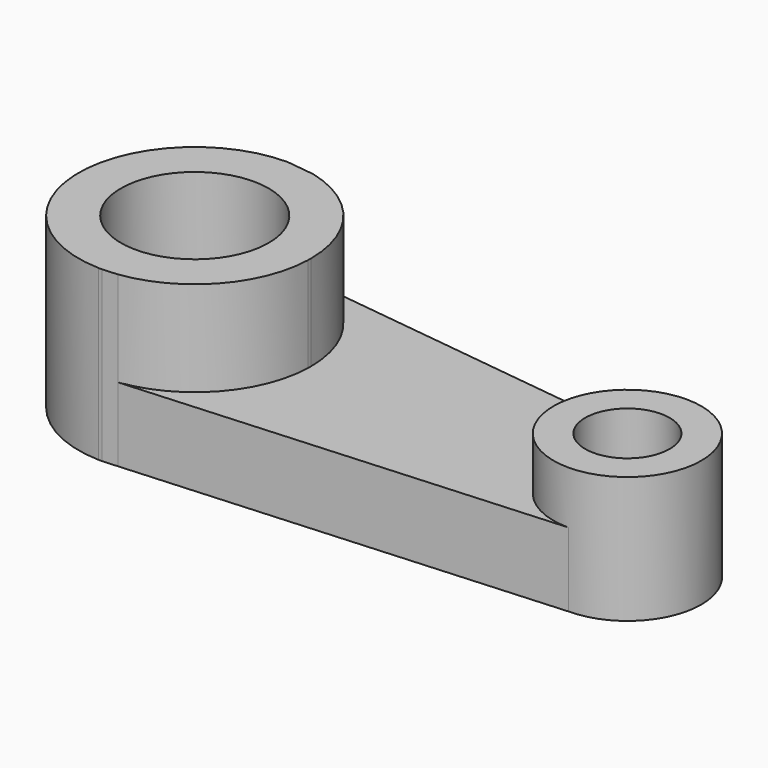
from build123d import *

# Parameters (mm, degrees)
F1_DEPTH = 22.225
F2_DEPTH = 50.8
F3_DEPTH = 38.1


with BuildPart() as f1:
    # F0 (on Top) → F1 (new body)
    with BuildSketch(Plane.XY):
        with BuildLine():
            ThreePointArc((4.5574981074, -34.6263604209), (25.9122606637, -23.4160281067), (34.9095515761, -1.0386692217))
            Line((34.9095515761, -1.0386692217), (22.2151691848, -0.6609713229))
            ThreePointArc((22.2151691848, -0.6609713229), (15.2411194712, -16.1758740804), (-0.6609713229, -22.2151691848))
            Line((-0.6609713229, -22.2151691848), (-1.0386692217, -34.9095515761))
            ThreePointArc((-1.0386692217, -34.9095515761), (-0.5193920499, -34.9211376805), (0, -34.925))
            Line((0, -34.925), (4.5574981074, -34.6263604209))
        make_face()
        with BuildLine():
            ThreePointArc((34.9095515761, -1.0386692217), (34.9211376805, -0.5193920499), (34.925, 0))
            ThreePointArc((34.925, 0), (27.5419497881, 21.4754889786), (8.514312706, 33.871257788))
            Line((8.514312706, 33.871257788), (0, 34.925))
            ThreePointArc((0, 34.925), (-34.9211376805, 0.5193920499), (-1.0386692217, -34.9095515761))
            Line((-1.0386692217, -34.9095515761), (-0.6609713229, -22.2151691848))
            ThreePointArc((-0.6609713229, -22.2151691848), (-15.4799957582, 15.9474247553), (22.225, 0))
            ThreePointArc((22.225, 0), (22.2225421603, -0.3305222136), (22.2151691848, -0.6609713229))
            Line((22.2151691848, -0.6609713229), (34.9095515761, -1.0386692217))
        make_face()
        with BuildLine():
            Line((111.0758459241, -3.3048566146), (34.9095515761, -1.0386692217))
            ThreePointArc((34.9095515761, -1.0386692217), (25.9122606637, -23.4160281067), (4.5574981074, -34.6263604209))
            Line((4.5574981074, -34.6263604209), (133.2910151089, -26.1908279375))
            ThreePointArc((133.2910151089, -26.1908279375), (117.3435903536, -19.4458236957), (111.0758459241, -3.3048566146))
        make_face()
        with BuildLine():
            ThreePointArc((8.514312706, 33.871257788), (27.5419497881, 21.4754889786), (34.925, 0))
            ThreePointArc((34.925, 0), (34.9211376805, -0.5193920499), (34.9095515761, -1.0386692217))
            Line((34.9095515761, -1.0386692217), (111.0758459241, -3.3048566146))
            ThreePointArc((111.0758459241, -3.3048566146), (117.8110193507, 11.9815968178), (133.2910151089, 18.2591720625))
            Line((133.2910151089, 18.2591720625), (133.2910151089, 18.4287337781))
            Line((133.2910151089, 18.4287337781), (8.514312706, 33.871257788))
        make_face()
        with BuildLine():
            ThreePointArc((133.2910151089, 18.2591720625), (117.8110193507, 11.9815968178), (111.0758459241, -3.3048566146))
            ThreePointArc((111.0758459241, -3.3048566146), (117.3435903536, -19.4458236957), (133.2910151089, -26.1908279375))
            ThreePointArc((133.2910151089, -26.1908279375), (149.0064633208, -19.6812761494), (155.5160151089, -3.9658279375))
            ThreePointArc((155.5160151089, -3.9658279375), (149.0064633208, 11.7496202744), (133.2910151089, 18.2591720625))
        make_face()
        with BuildLine():
            ThreePointArc((145.9910151089, -3.9658279375), (133.1021452726, -16.6644234577), (120.5966327176, -3.5881300387))
            ThreePointArc((120.5966327176, -3.5881300387), (133.4798849453, 8.7327675827), (145.9910151089, -3.9658279375))
        make_face(mode=Mode.SUBTRACT)
    extrude(amount=F1_DEPTH)

    # F0 (on Top) → F2 (join)
    with BuildSketch(Plane.XY):
        with BuildLine():
            ThreePointArc((4.5574981074, -34.6263604209), (25.9122606637, -23.4160281067), (34.9095515761, -1.0386692217))
            Line((34.9095515761, -1.0386692217), (22.2151691848, -0.6609713229))
            ThreePointArc((22.2151691848, -0.6609713229), (15.2411194712, -16.1758740804), (-0.6609713229, -22.2151691848))
            Line((-0.6609713229, -22.2151691848), (-1.0386692217, -34.9095515761))
            ThreePointArc((-1.0386692217, -34.9095515761), (-0.5193920499, -34.9211376805), (0, -34.925))
            Line((0, -34.925), (4.5574981074, -34.6263604209))
        make_face()
        with BuildLine():
            ThreePointArc((34.9095515761, -1.0386692217), (34.9211376805, -0.5193920499), (34.925, 0))
            ThreePointArc((34.925, 0), (27.5419497881, 21.4754889786), (8.514312706, 33.871257788))
            Line((8.514312706, 33.871257788), (0, 34.925))
            ThreePointArc((0, 34.925), (-34.9211376805, 0.5193920499), (-1.0386692217, -34.9095515761))
            Line((-1.0386692217, -34.9095515761), (-0.6609713229, -22.2151691848))
            ThreePointArc((-0.6609713229, -22.2151691848), (-15.4799957582, 15.9474247553), (22.225, 0))
            ThreePointArc((22.225, 0), (22.2225421603, -0.3305222136), (22.2151691848, -0.6609713229))
            Line((22.2151691848, -0.6609713229), (34.9095515761, -1.0386692217))
        make_face()
    extrude(amount=F2_DEPTH)

    # F0 (on Top) → F3 (join)
    with BuildSketch(Plane.XY):
        with BuildLine():
            ThreePointArc((133.2910151089, 18.2591720625), (117.8110193507, 11.9815968178), (111.0758459241, -3.3048566146))
            ThreePointArc((111.0758459241, -3.3048566146), (117.3435903536, -19.4458236957), (133.2910151089, -26.1908279375))
            ThreePointArc((133.2910151089, -26.1908279375), (149.0064633208, -19.6812761494), (155.5160151089, -3.9658279375))
            ThreePointArc((155.5160151089, -3.9658279375), (149.0064633208, 11.7496202744), (133.2910151089, 18.2591720625))
        make_face()
        with BuildLine():
            ThreePointArc((145.9910151089, -3.9658279375), (133.1021452726, -16.6644234577), (120.5966327176, -3.5881300387))
            ThreePointArc((120.5966327176, -3.5881300387), (133.4798849453, 8.7327675827), (145.9910151089, -3.9658279375))
        make_face(mode=Mode.SUBTRACT)
    extrude(amount=F3_DEPTH)


solid = f1.part
